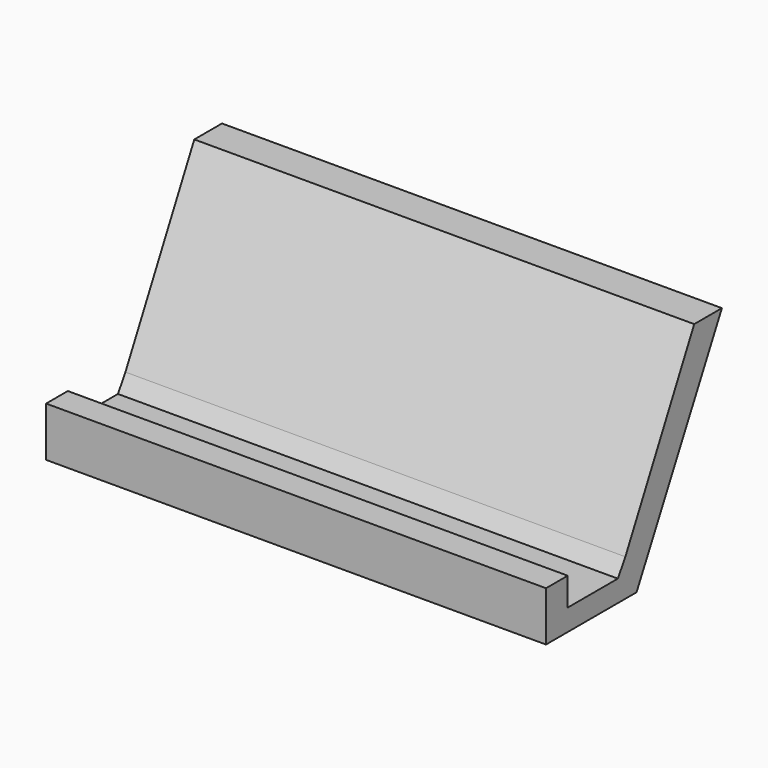
from build123d import *

# Parameters (mm, degrees)
F1_DEPTH      = 76.2
F1_DEPTH_BACK = 76.2


with BuildPart() as f1:
    # F0 (on Right) → F1 (new body, two sides)
    with BuildSketch(Plane.YZ) as f1_sk:
        Polygon((26.242139, 51.771179), (0, 0), (-2.852406, -4.706471), (-21.963529, -4.706471), (-21.963529, 3.850749), (-30.235508, 3.850749), (-30.235508, -11.267005), (4.27861, -11.267005), (36.796045, 51.771179), align=None)
    extrude(amount=F1_DEPTH)
    extrude(f1_sk.sketch, amount=-F1_DEPTH_BACK)


solid = f1.part
